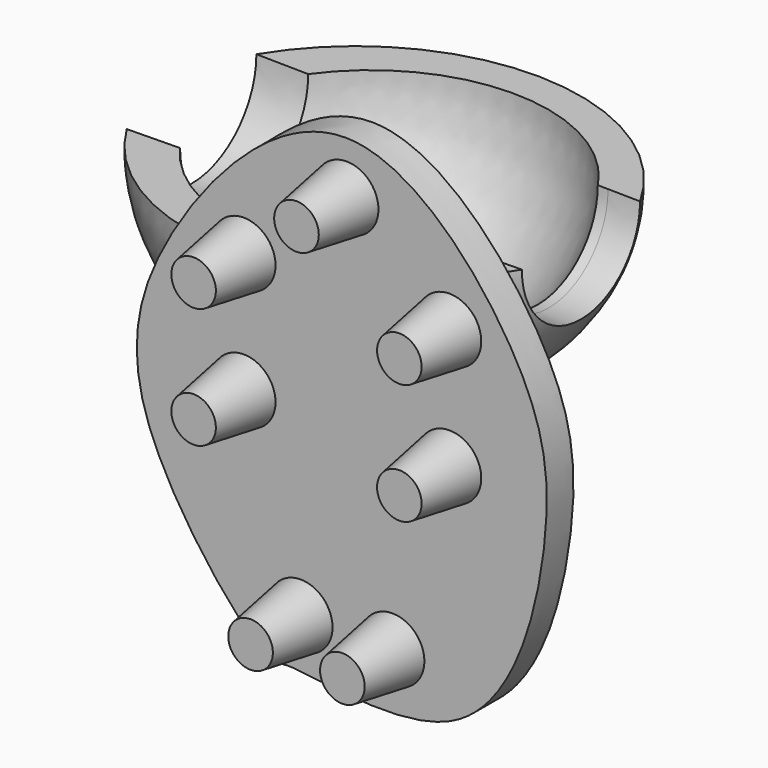
from build123d import *

# Parameters (mm, degrees)
F0_R      = 3.8771015689
F5_R      = 5.6983248569
F6_R      = 3.6635547169
F8_R      = 3.8703638435
F11_R     = 7.2019842089
F12_R     = 56.8187209303
F17_R     = 3.8769676926
F20_R     = 53.0821487258
F21_R     = 4.5415408067
F25_DEPTH = 4.064
F28_ANGLE = 180


with BuildPart() as f3:
    # F0 (on Front) → F3 section 0
    with BuildSketch(Plane.XZ, mode=Mode.PRIVATE) as f3_s0:
        with Locations((0, 29.0843397379)):
            Circle(F0_R)
    loft([f3_s0.sketch, Vertex(0, -25.4, 29.1091017425)])

    # F5 (on offset) → F7 section 0
    with BuildSketch(Plane.XZ.offset(7.62)):
        with Locations((0, 28.4678451717)):
            Circle(F5_R)
    # F6 (on offset) → F7 section 1
    with BuildSketch(Plane.XZ.offset(25.4)):
        with Locations((0, 29.0928874165)):
            Circle(F6_R)
    loft(mode=Mode.SUBTRACT)


with BuildPart() as f10:
    # F8 (on Front) → F10 section 0
    with BuildSketch(Plane.XZ, mode=Mode.PRIVATE) as f10_s0:
        with Locations((-12.5149413943, 19.0065298229)):
            Circle(F8_R)
    loft([f10_s0.sketch, Vertex(-12.517310679, -25.4, 19.0245490521)])

    # F11 (on offset) → F13 section 0
    with BuildSketch(Plane.XZ.offset(7.62)):
        with Locations((-9.7385119116, 19.0026373996)):
            Circle(F11_R)
    # F12 (on offset) → F13 section 1
    with BuildSketch(Plane.XZ.offset(25.4)):
        with Locations((-23.6887745559, 25.0486060977)):
            Circle(F12_R)
    loft(mode=Mode.SUBTRACT)


with BuildPart() as f14_1:
    # F14: instance of F10
    add(f10.part.mirror(Plane.YZ))


with BuildPart() as f16_1:
    # F16: instance of F10
    add(f10.part.mirror(Plane.XY.offset(11.684)))


with BuildPart() as f16_2:
    # F16: instance of F14_1
    add(f14_1.part.mirror(Plane.XY.offset(11.684)))


with BuildPart() as f19:
    # F17 (on Front) → F19 section 0
    with BuildSketch(Plane.XZ, mode=Mode.PRIVATE) as f19_s0:
        with Locations((-5.5864057504, -17.4995753914)):
            Circle(F17_R)
    loft([f19_s0.sketch, Vertex(-5.5864183232, -25.4, -17.4995232373)])

    # F20 (on offset) → F22 section 0
    with BuildSketch(Plane.XZ.offset(7.62)):
        with Locations((-10.2948704734, -11.3515909761)):
            Circle(F20_R)
    # F21 (on offset) → F22 section 1
    with BuildSketch(Plane.XZ.offset(25.4)):
        with Locations((-5.5690594018, -17.5002664328)):
            Circle(F21_R)
    loft(mode=Mode.SUBTRACT)


with BuildPart() as f23_1:
    # F23: instance of F19
    add(f19.part.mirror(Plane.YZ))


with BuildPart() as f25:
    # F24 (on Front) → F25 (new body)
    with BuildSketch(Plane.XZ):
        with BuildLine():
            add(Edge.make_bspline(
                [(0, 35.4711003602), (-8.3377268177, 35.6079903839), (-24.1422378847, 18.0486125422), (-28.2291177434, -2.5517682042), (-10.1608107669, -24.5971800029), (-7.016069321, -22.5096620341), (17.695737715, -28.6550145381), (25.7384476983, 1.1807424816), (23.1853158982, 18.3165576298), (8.1814002308, 35.3367769293), (0, 35.4711003602)],
                knots=[0, 0, 0, 0, 0.1478180646, 0.2787213559, 0.4167501874, 0.4658218658, 0.5913848015, 0.7326107204, 0.8549534214, 1, 1, 1, 1], degree=3))
        make_face()
    extrude(amount=-F25_DEPTH)


with BuildPart() as f28:
    # F27 (on Top) → F28 (revolve)
    with BuildSketch(Plane.XY):
        with BuildLine():
            ThreePointArc((-12.6473630132, 60.4391704599), (-36.0837241785, 74.5094241889), (-60.0219592452, 61.3110922277))
            Line((-60.0219592452, 61.3110922277), (-16.5989212692, 60.5118982494))
            Line((-16.5989212692, 60.5118982494), (-12.6473630132, 60.4391704599))
        make_face()
    revolve(axis=Axis((-38.0492019467, 51.4515116811, 0), (-1, 0, 0)), revolution_arc=F28_ANGLE)

    # F29 (on face) → F30 (revolve, cut)
    with BuildSketch(Plane.XY):
        with BuildLine():
            Line((-17.8651539403, 42.3678203056), (-53.6254472387, 41.7096579015))
            ThreePointArc((-53.6254472387, 41.7096579015), (-35.5720890855, 32.6275449227), (-17.8651539403, 42.3678203056))
        make_face()
    revolve(axis=Axis((-38.0492019467, 51.4515116811, 0), (-1, 0, 0)), mode=Mode.SUBTRACT)


solid = Compound([f3.part, f10.part, f14_1.part, f16_1.part, f16_2.part, f19.part, f23_1.part, f25.part, f28.part])
